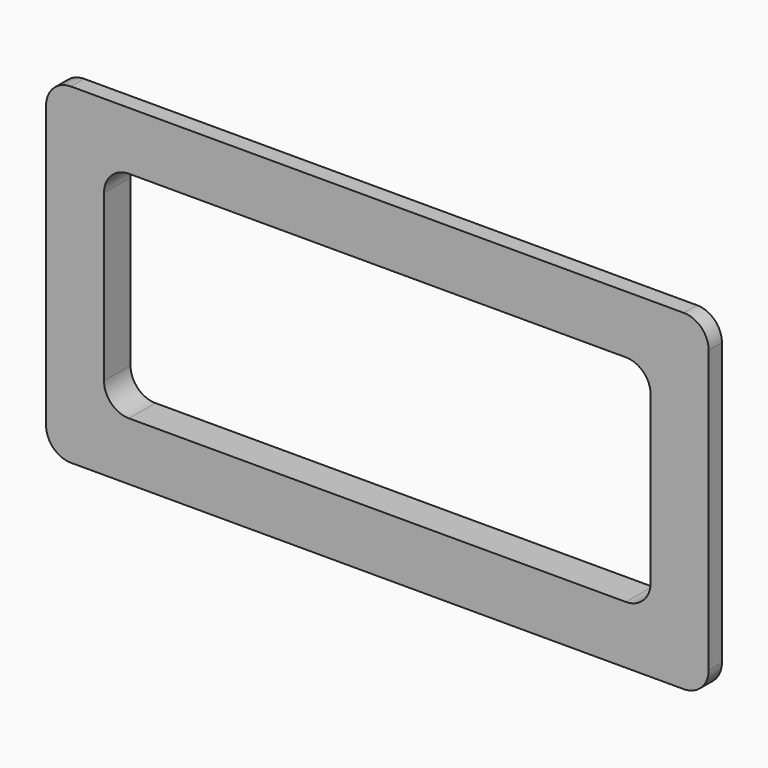
from build123d import *

# Parameters (mm, degrees)
F0_W     = 508
F0_H     = 254
F0_W_2   = 419.1
F0_H_2   = 165.1
F1_DEPTH = 12.7
F2_W     = 482.6
F2_H     = 228.6
F2_W_2   = 419.1
F2_H_2   = 165.1
F3_DEPTH = 12.7
F4_R     = 19.05


with BuildPart() as f1:
    # F0 (on Front) → F1 (new body)
    with BuildSketch(Plane.XZ):
        Rectangle(F0_W, F0_H)
        Rectangle(F0_W_2, F0_H_2, mode=Mode.SUBTRACT)
    extrude(amount=F1_DEPTH)

    # F2 (on Front) → F3 (join)
    with BuildSketch(Plane.XZ):
        Rectangle(F2_W, F2_H)
        Rectangle(F2_W_2, F2_H_2, mode=Mode.SUBTRACT)
    extrude(amount=-F3_DEPTH)

    # F4
    f4_edges = [f1.edges().sort_by_distance(p)[0] for p in [
        (254, -6.35, 127),
        (241.3, 6.35, 114.3),
        (209.55, 0, 82.55),
        (254, -6.35, -127),
        (241.3, 6.35, -114.3),
        (209.55, 0, -82.55),
        (-209.55, 0, -82.55),
        (-241.3, 6.35, -114.3),
        (-254, -6.35, -127),
        (-254, -6.35, 127),
        (-241.3, 6.35, 114.3),
        (-209.55, 0, 82.55),
    ]]
    fillet(f4_edges, radius=F4_R)


solid = f1.part
